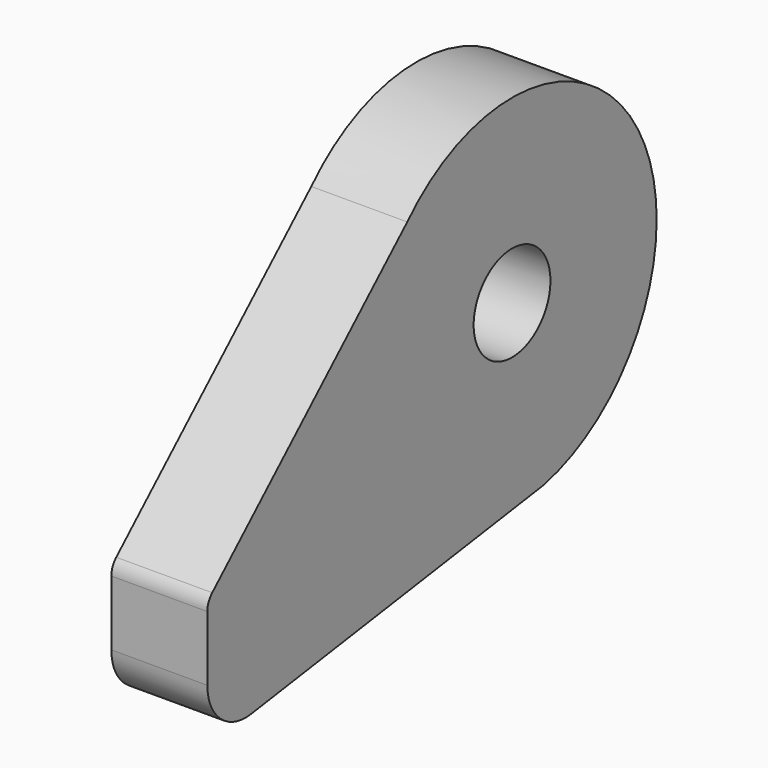
from build123d import *

# Parameters (mm, degrees)
F1_DEPTH = 25.4
F2_R     = 5.08
F3_R     = 12.7
F5_D     = 25.4


with BuildPart() as f1:
    # F0 (on Right) → F1 (new body)
    with BuildSketch(Plane.YZ):
        with BuildLine():
            Line((-100.798406, -62.770836), (3.237976, -47.720455))
            Line((3.237976, -47.720455), (10.418668, -46.681663))
            ThreePointArc((10.418668, -46.681663), (41.624074, 23.561893), (-34.662531, 32.958083))
            Line((-34.662531, 32.958083), (-100.798406, -28.698139))
            Line((-100.798406, -28.698139), (-100.798406, -62.770836))
        make_face()
    extrude(amount=F1_DEPTH)

    # F2
    f2_edges = [f1.edges().sort_by_distance(p)[0] for p in [
        (12.7, -100.798406, -28.698139),
    ]]
    fillet(f2_edges, radius=F2_R)

    # F3
    f3_edges = [f1.edges().sort_by_distance(p)[0] for p in [
        (12.7, -100.798406, -62.770836),
    ]]
    fillet(f3_edges, radius=F3_R)

    # F5 (through all)
    with Locations(Plane(origin=(0, 0, 0), x_dir=(0, -1, 0), z_dir=(-1, 0, 0))):
        with Locations((0, 0)):
            Hole(F5_D / 2)


solid = f1.part
